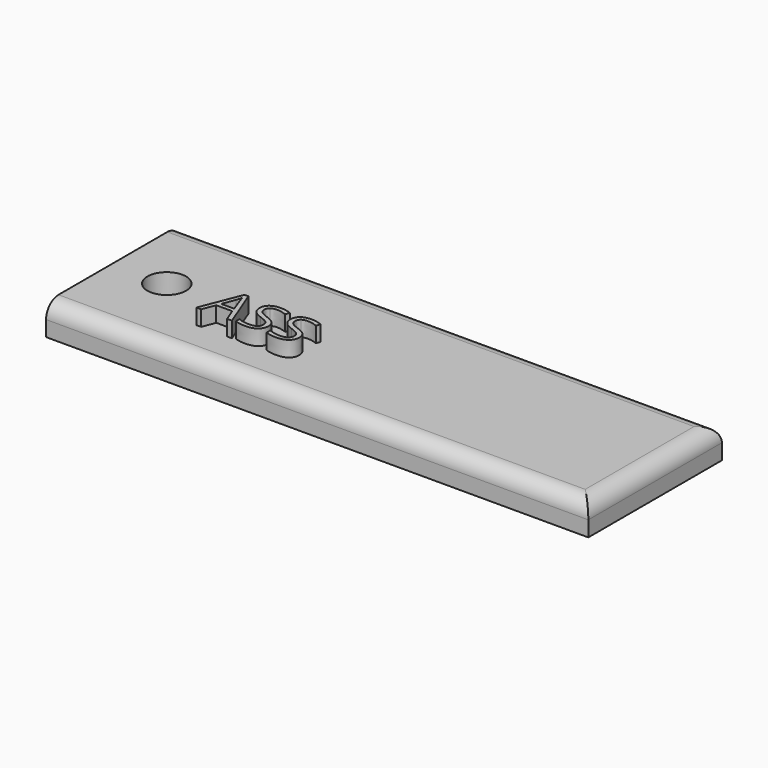
from build123d import *

# Parameters (mm, degrees)
F0_W     = 70
F0_H     = 21.5599828357
F0_R     = 2.5
F1_DEPTH = 4
F3_DEPTH = 2
F4_R     = 2


with BuildPart() as f1:
    # F0 (on Top) → F1 (new body)
    with BuildSketch(Plane.XY):
        with Locations((18.8872945234, 0.0549508259)):
            Rectangle(F0_W, F0_H)
        with Locations((-9.1127054766, 0)):
            Circle(F0_R, mode=Mode.SUBTRACT)
    extrude(amount=F1_DEPTH)

    # F2 (on face) → F3 (join)
    with BuildSketch(Plane.XY.offset(4)):
        Polygon((2.2051139605, -3.5713818915), (2.8492078737, -5.2161419195), (3.4717942573, -5.2161419195), (1.4376347458, -0.0226395049), (0.9316418122, -0.0226395049), (-1.1127054766, -5.2161419195), (-0.5037027959, -5.2161419195), (0.1324672907, -3.5713818915), align=None)
        with BuildLine():
            Line((1.4161272162, -1.4274207814), (2.0183380454, -3.0302977254))
            Line((2.0183380454, -3.0302977254), (0.3452786363, -3.0302977254))
            Line((0.3452786363, -3.0302977254), (0.9531493418, -1.4274207814))
            add(Edge.make_bspline(
                [(1.1761484646, -0.6814490963), (1.0980421729, -1.0210416691), (0.9531493418, -1.4274207814)],
                knots=[0, 0, 0, 1, 1, 1], degree=2))
            add(Edge.make_bspline(
                [(1.4161272162, -1.4274207814), (1.2995337661, -1.122919441), (1.1761484646, -0.6814490963)],
                knots=[0, 0, 0, 1, 1, 1], degree=2))
        make_face(mode=Mode.SUBTRACT)
        with BuildLine():
            add(Edge.make_bspline(
                [(7.1009068862, -3.8396600241), (7.1009068862, -4.5222410956), (6.6056677174, -4.9048487277)],
                knots=[0, 0, 0, 1, 1, 1], degree=2))
            add(Edge.make_bspline(
                [(6.7952735706, -2.9770948889), (7.1009068862, -3.3098956104), (7.1009068862, -3.8396600241)],
                knots=[0, 0, 0, 1, 1, 1], degree=2))
            add(Edge.make_bspline(
                [(5.6757500553, -2.3545085053), (6.489640255, -2.6442941675), (6.7952735706, -2.9770948889)],
                knots=[0, 0, 0, 1, 1, 1], degree=2))
            add(Edge.make_bspline(
                [(4.9558138008, -2.0381214249), (5.1912646514, -2.1813162932), (5.6757500553, -2.3545085053)],
                knots=[0, 0, 0, 1, 1, 1], degree=2))
            add(Edge.make_bspline(
                [(4.6213151165, -1.7228663198), (4.7203629503, -1.8949265567), (4.9558138008, -2.0381214249)],
                knots=[0, 0, 0, 1, 1, 1], degree=2))
            add(Edge.make_bspline(
                [(4.5222672828, -1.2825279503), (4.5222672828, -1.5508060828), (4.6213151165, -1.7228663198)],
                knots=[0, 0, 0, 1, 1, 1], degree=2))
            add(Edge.make_bspline(
                [(4.791111403, -0.7131444031), (4.5222672828, -0.918031922), (4.5222672828, -1.2825279503)],
                knots=[0, 0, 0, 1, 1, 1], degree=2))
            add(Edge.make_bspline(
                [(5.5376490757, -0.5082568841), (5.0599555232, -0.5082568841), (4.791111403, -0.7131444031)],
                knots=[0, 0, 0, 1, 1, 1], degree=2))
            add(Edge.make_bspline(
                [(6.7828218429, -0.7765350167), (6.1421238554, -0.5082568841), (5.5376490757, -0.5082568841)],
                knots=[0, 0, 0, 1, 1, 1], degree=2))
            Line((6.7828218429, -0.7765350167), (6.9707297333, -0.2535624544))
            add(Edge.make_bspline(
                [(5.5523647539, 0.0294313563), (6.3232398943, 0.0294313563), (6.9707297333, -0.2535624544)],
                knots=[0, 0, 0, 1, 1, 1], degree=2))
            add(Edge.make_bspline(
                [(4.3632247612, -0.3243109071), (4.812052945, 0.0294313563), (5.5523647539, 0.0294313563)],
                knots=[0, 0, 0, 1, 1, 1], degree=2))
            add(Edge.make_bspline(
                [(3.9143965773, -1.2757360988), (3.9143965773, -0.6780531705), (4.3632247612, -0.3243109071)],
                knots=[0, 0, 0, 1, 1, 1], degree=2))
            add(Edge.make_bspline(
                [(4.2239918063, -2.1988619094), (3.9143965773, -1.845119646), (3.9143965773, -1.2757360988)],
                knots=[0, 0, 0, 1, 1, 1], degree=2))
            add(Edge.make_bspline(
                [(5.254655265, -2.8106945282), (4.5335870352, -2.5526041728), (4.2239918063, -2.1988619094)],
                knots=[0, 0, 0, 1, 1, 1], degree=2))
            add(Edge.make_bspline(
                [(6.0238324426, -3.1395333363), (5.7708359758, -2.9940745176), (5.254655265, -2.8106945282)],
                knots=[0, 0, 0, 1, 1, 1], degree=2))
            add(Edge.make_bspline(
                [(6.3849325451, -3.4564864043), (6.2768289094, -3.284992155), (6.0238324426, -3.1395333363)],
                knots=[0, 0, 0, 1, 1, 1], degree=2))
            add(Edge.make_bspline(
                [(6.4930361808, -3.8962587862), (6.4930361808, -3.6279806536), (6.3849325451, -3.4564864043)],
                knots=[0, 0, 0, 1, 1, 1], degree=2))
            add(Edge.make_bspline(
                [(6.1885348404, -4.5318628851), (6.4930361808, -4.3037698737), (6.4930361808, -3.8962587862)],
                knots=[0, 0, 0, 1, 1, 1], degree=2))
            add(Edge.make_bspline(
                [(5.282954646, -4.7599558966), (5.8840335, -4.7599558966), (6.1885348404, -4.5318628851)],
                knots=[0, 0, 0, 1, 1, 1], degree=2))
            add(Edge.make_bspline(
                [(4.5403788867, -4.6818496048), (4.9150626921, -4.7599558966), (5.282954646, -4.7599558966)],
                knots=[0, 0, 0, 1, 1, 1], degree=2))
            add(Edge.make_bspline(
                [(3.8464780628, -4.4701702344), (4.1656950813, -4.603743313), (4.5403788867, -4.6818496048)],
                knots=[0, 0, 0, 1, 1, 1], degree=2))
            Line((3.8464780628, -4.4701702344), (3.8464780628, -5.0497415588))
            add(Edge.make_bspline(
                [(5.2614471164, -5.2874563598), (4.3422832192, -5.2874563598), (3.8464780628, -5.0497415588)],
                knots=[0, 0, 0, 1, 1, 1], degree=2))
            add(Edge.make_bspline(
                [(6.6056677174, -4.9048487277), (6.1104285486, -5.2874563598), (5.2614471164, -5.2874563598)],
                knots=[0, 0, 0, 1, 1, 1], degree=2))
        make_face()
        with BuildLine():
            add(Edge.make_bspline(
                [(11.0775359147, -3.8396600241), (11.0775359147, -4.5222410956), (10.5822967459, -4.9048487277)],
                knots=[0, 0, 0, 1, 1, 1], degree=2))
            add(Edge.make_bspline(
                [(10.7719025991, -2.9770948889), (11.0775359147, -3.3098956104), (11.0775359147, -3.8396600241)],
                knots=[0, 0, 0, 1, 1, 1], degree=2))
            add(Edge.make_bspline(
                [(9.6523790838, -2.3545085053), (10.4662692835, -2.6442941675), (10.7719025991, -2.9770948889)],
                knots=[0, 0, 0, 1, 1, 1], degree=2))
            add(Edge.make_bspline(
                [(8.9324428293, -2.0381214249), (9.1678936798, -2.1813162932), (9.6523790838, -2.3545085053)],
                knots=[0, 0, 0, 1, 1, 1], degree=2))
            add(Edge.make_bspline(
                [(8.597944145, -1.7228663198), (8.6969919788, -1.8949265567), (8.9324428293, -2.0381214249)],
                knots=[0, 0, 0, 1, 1, 1], degree=2))
            add(Edge.make_bspline(
                [(8.4988963112, -1.2825279503), (8.4988963112, -1.5508060828), (8.597944145, -1.7228663198)],
                knots=[0, 0, 0, 1, 1, 1], degree=2))
            add(Edge.make_bspline(
                [(8.7677404314, -0.7131444031), (8.4988963112, -0.918031922), (8.4988963112, -1.2825279503)],
                knots=[0, 0, 0, 1, 1, 1], degree=2))
            add(Edge.make_bspline(
                [(9.5142781042, -0.5082568841), (9.0365845516, -0.5082568841), (8.7677404314, -0.7131444031)],
                knots=[0, 0, 0, 1, 1, 1], degree=2))
            add(Edge.make_bspline(
                [(10.7594508714, -0.7765350167), (10.1187528839, -0.5082568841), (9.5142781042, -0.5082568841)],
                knots=[0, 0, 0, 1, 1, 1], degree=2))
            Line((10.7594508714, -0.7765350167), (10.9473587617, -0.2535624544))
            add(Edge.make_bspline(
                [(9.5289937823, 0.0294313563), (10.2998689228, 0.0294313563), (10.9473587617, -0.2535624544)],
                knots=[0, 0, 0, 1, 1, 1], degree=2))
            add(Edge.make_bspline(
                [(8.3398537896, -0.3243109071), (8.7886819734, 0.0294313563), (9.5289937823, 0.0294313563)],
                knots=[0, 0, 0, 1, 1, 1], degree=2))
            add(Edge.make_bspline(
                [(7.8910256058, -1.2757360988), (7.8910256058, -0.6780531705), (8.3398537896, -0.3243109071)],
                knots=[0, 0, 0, 1, 1, 1], degree=2))
            add(Edge.make_bspline(
                [(8.2006208347, -2.1988619094), (7.8910256058, -1.845119646), (7.8910256058, -1.2757360988)],
                knots=[0, 0, 0, 1, 1, 1], degree=2))
            add(Edge.make_bspline(
                [(9.2312842934, -2.8106945282), (8.5102160637, -2.5526041728), (8.2006208347, -2.1988619094)],
                knots=[0, 0, 0, 1, 1, 1], degree=2))
            add(Edge.make_bspline(
                [(10.000461471, -3.1395333363), (9.7474650042, -2.9940745176), (9.2312842934, -2.8106945282)],
                knots=[0, 0, 0, 1, 1, 1], degree=2))
            add(Edge.make_bspline(
                [(10.3615615735, -3.4564864043), (10.2534579378, -3.284992155), (10.000461471, -3.1395333363)],
                knots=[0, 0, 0, 1, 1, 1], degree=2))
            add(Edge.make_bspline(
                [(10.4696652092, -3.8962587862), (10.4696652092, -3.6279806536), (10.3615615735, -3.4564864043)],
                knots=[0, 0, 0, 1, 1, 1], degree=2))
            add(Edge.make_bspline(
                [(10.1651638689, -4.5318628851), (10.4696652092, -4.3037698737), (10.4696652092, -3.8962587862)],
                knots=[0, 0, 0, 1, 1, 1], degree=2))
            add(Edge.make_bspline(
                [(9.2595836745, -4.7599558966), (9.8606625285, -4.7599558966), (10.1651638689, -4.5318628851)],
                knots=[0, 0, 0, 1, 1, 1], degree=2))
            add(Edge.make_bspline(
                [(8.5170079151, -4.6818496048), (8.8916917205, -4.7599558966), (9.2595836745, -4.7599558966)],
                knots=[0, 0, 0, 1, 1, 1], degree=2))
            add(Edge.make_bspline(
                [(7.8231070912, -4.4701702344), (8.1423241097, -4.603743313), (8.5170079151, -4.6818496048)],
                knots=[0, 0, 0, 1, 1, 1], degree=2))
            Line((7.8231070912, -4.4701702344), (7.8231070912, -5.0497415588))
            add(Edge.make_bspline(
                [(9.2380761449, -5.2874563598), (8.3189122476, -5.2874563598), (7.8231070912, -5.0497415588)],
                knots=[0, 0, 0, 1, 1, 1], degree=2))
            add(Edge.make_bspline(
                [(10.5822967459, -4.9048487277), (10.0870575771, -5.2874563598), (9.2380761449, -5.2874563598)],
                knots=[0, 0, 0, 1, 1, 1], degree=2))
        make_face()
    extrude(amount=F3_DEPTH)

    # F4
    f4_edges = [f1.edges().sort_by_distance(p)[0] for p in [
        (18.887295, -10.725041, 4),
        (18.887295, 10.834942, 4),
        (53.887295, 0.054951, 4),
    ]]
    fillet(f4_edges, radius=F4_R)


solid = f1.part
